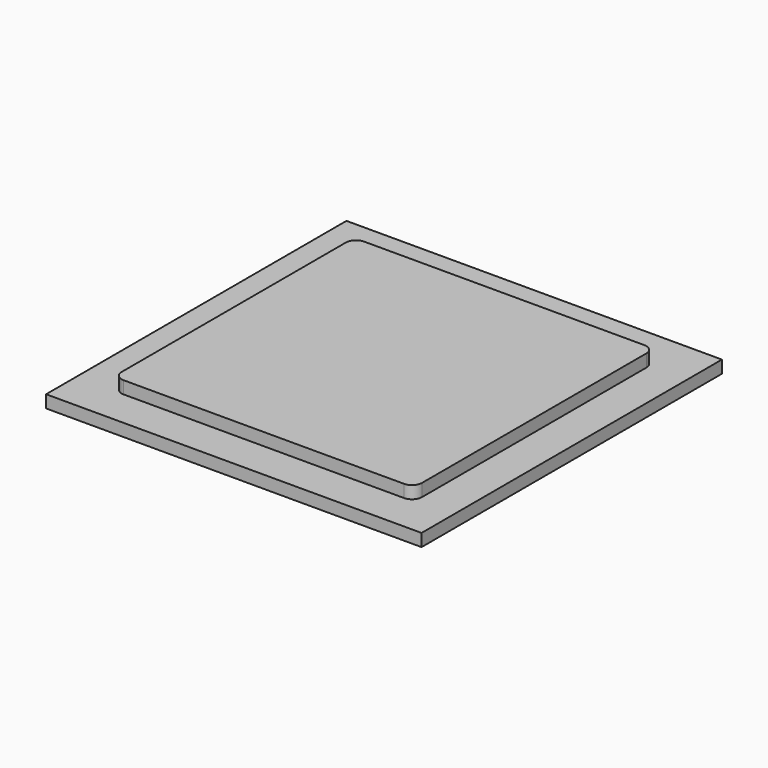
from build123d import *

# Parameters (mm, degrees)
F0_W     = 190.5
F0_H     = 190.5
F1_DEPTH = 6.35
F2_W     = 152.4
F2_H     = 152.4
F3_DEPTH = 6.35
F4_R     = 5.08


with BuildPart() as f1:
    # F0 (on Top) → F1 (new body)
    with BuildSketch(Plane.XY):
        Rectangle(F0_W, F0_H)
    extrude(amount=F1_DEPTH)


with BuildPart() as f3:
    # F2 (on face) → F3 (new body)
    with BuildSketch(Plane.XY.offset(6.35)):
        Rectangle(F2_W, F2_H)
    extrude(amount=F3_DEPTH)

    # F4
    f4_edges = [f3.edges().sort_by_distance(p)[0] for p in [
        (76.2, -76.2, 9.525),
        (-76.2, -76.2, 9.525),
        (76.2, 76.2, 9.525),
        (-76.2, 76.2, 9.525),
    ]]
    fillet(f4_edges, radius=F4_R)


solid = Compound([f1.part, f3.part])
